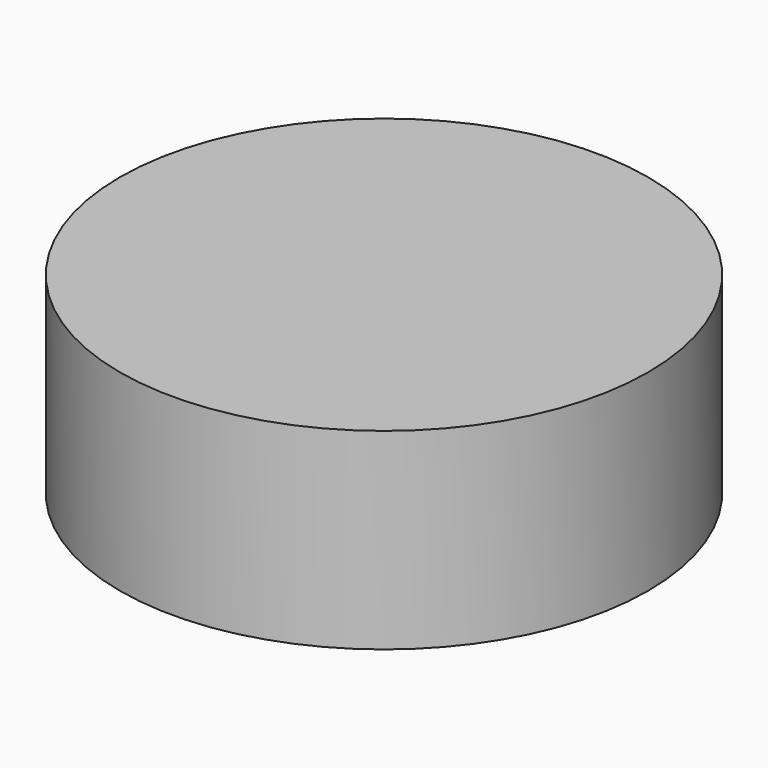
from build123d import *

# Parameters (mm, degrees)
CYLINDER_R     = 20.59305
CYLINDER_DEPTH = 15


with BuildPart() as part:
    # Cylinder → Cylinder (new body)
    with BuildSketch(Plane.XY.offset(-2.5)):
        Circle(CYLINDER_R)
    extrude(amount=CYLINDER_DEPTH)


solid = part.part
